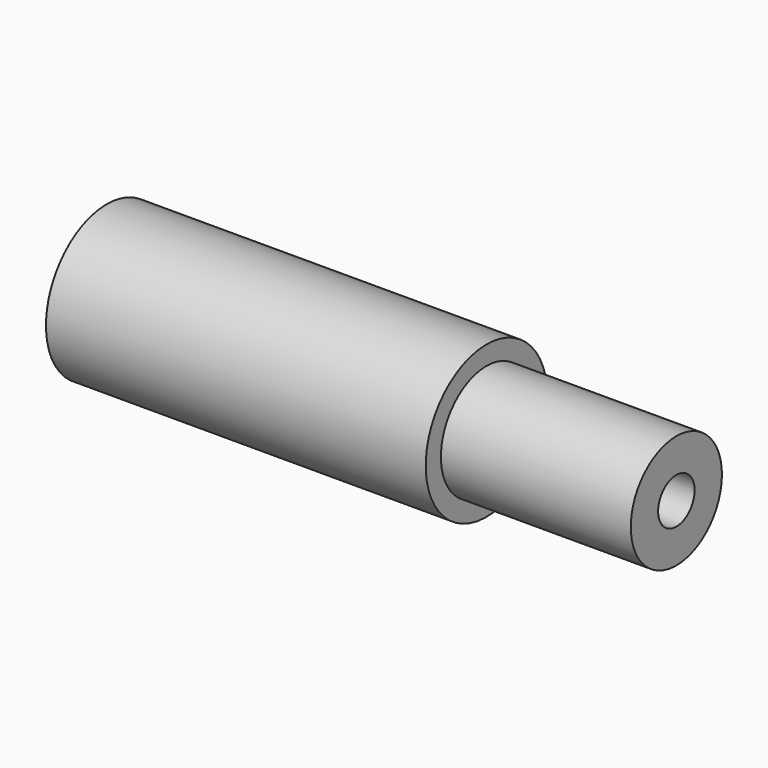
from build123d import *

# Parameters (mm, degrees)
F0_R     = 20
F1_DEPTH = 150
F2_R     = 15
F2_R_2   = 6
F3_DEPTH = 50
F4_DEPTH = 150
F5_R     = 20
F5_R_2   = 15
F6_DEPTH = 50


with BuildPart() as f1:
    # F0 (on Right) → F1 (new body)
    with BuildSketch(Plane.YZ):
        Circle(F0_R)
    extrude(amount=F1_DEPTH)

    # F2 (on face) → F3 (cut)
    with BuildSketch(Plane(origin=(0, 0, 0), x_dir=(0, -1, 0), z_dir=(-1, 0, 0))):
        Circle(F2_R)
        Circle(F2_R_2, mode=Mode.SUBTRACT)
    extrude(amount=-F3_DEPTH, mode=Mode.SUBTRACT)

    # F4 (cut): a face of the model
    f4_faces = [f1.faces().sort_by_distance(p)[0] for p in [
        (0, 0, 0),
    ]]
    extrude(f4_faces, amount=-F4_DEPTH, mode=Mode.SUBTRACT)

    # F5 (on face) → F6 (cut)
    with BuildSketch(Plane.YZ.offset(150)):
        Circle(F5_R)
        Circle(F5_R_2, mode=Mode.SUBTRACT)
    extrude(amount=-F6_DEPTH, mode=Mode.SUBTRACT)


solid = f1.part
